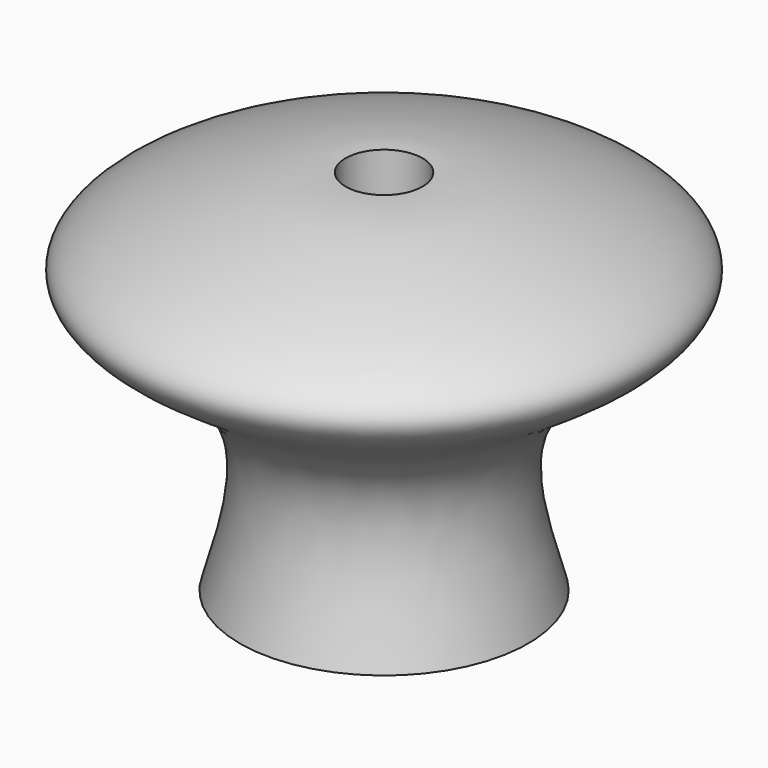
from build123d import *

# Parameters (mm, degrees)
F3_R     = 4
F4_DEPTH = 128
F5_R     = 8
F6_DEPTH = 20


with BuildPart() as f1:
    # F0 (on Front) → F1 (revolve)
    with BuildSketch(Plane.XZ):
        with BuildLine():
            Line((-30, 0), (0, 0))
            Line((0, 0), (0, 74.4419768453))
            add(Edge.make_bspline(
                [(-30, 0), (-26.0781444115, 13.4116450928), (-18.4118492623, 39.6282222706), (-76.4407572251, 59.6656107835), (-13.1944315406, 79.611542342), (-3.5713194359, 75.8412163409), (0, 74.4419768453)],
                knots=[0, 0, 0, 0, 0.2714940232, 0.5307062604, 0.8258361915, 1, 1, 1, 1], degree=3))
        make_face()
    revolve(axis=Axis((0, 0, 37.2209884226), (0, 0, 1)))

    # F3 (on offset) → F4 (cut)
    with BuildSketch(Plane.XY.offset(82)):
        Circle(F3_R)
    extrude(amount=-F4_DEPTH, mode=Mode.SUBTRACT)

    # F5 (on offset) → F6 (cut)
    with BuildSketch(Plane.XY.offset(82)):
        Circle(F5_R)
    extrude(amount=-F6_DEPTH, mode=Mode.SUBTRACT)


solid = f1.part
